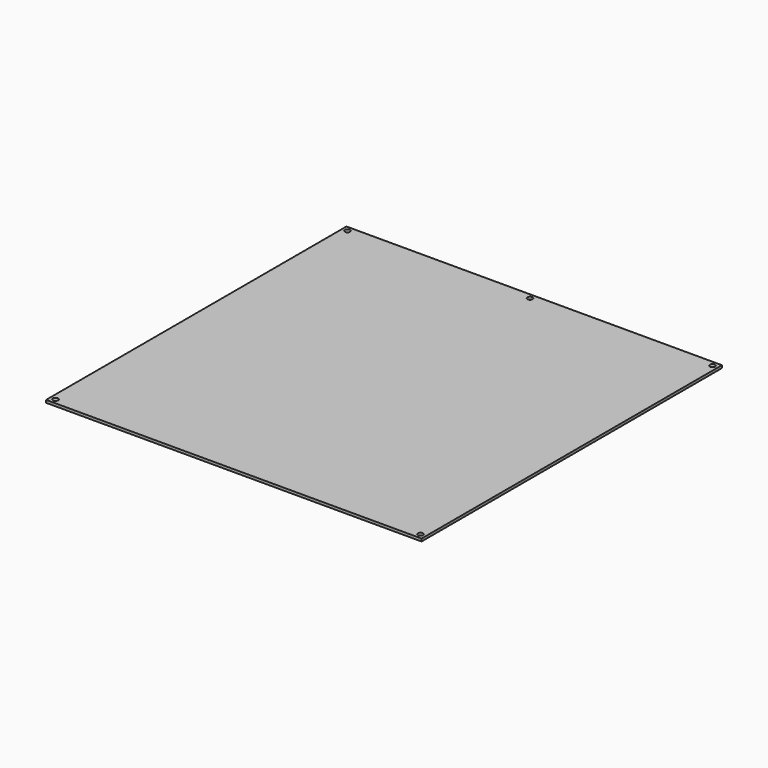
from build123d import *

# Parameters (mm, degrees)
F0_W     = 215
F0_H     = 215
F0_R     = 1.5
F1_DEPTH = 1.5


with BuildPart() as f1:
    # F0 (on Top) → F1 (new body)
    with BuildSketch(Plane.XY):
        Rectangle(F0_W, F0_H)
        with Locations((-104.5, -104.5)):
            Circle(F0_R, mode=Mode.SUBTRACT)
        with Locations((104.5, -104.5)):
            Circle(F0_R, mode=Mode.SUBTRACT)
        with Locations((-104.5, 104.5)):
            Circle(F0_R, mode=Mode.SUBTRACT)
        with Locations((0, 104.5)):
            Circle(F0_R, mode=Mode.SUBTRACT)
        with Locations((104.5, 104.5)):
            Circle(F0_R, mode=Mode.SUBTRACT)
    extrude(amount=F1_DEPTH)


solid = f1.part
